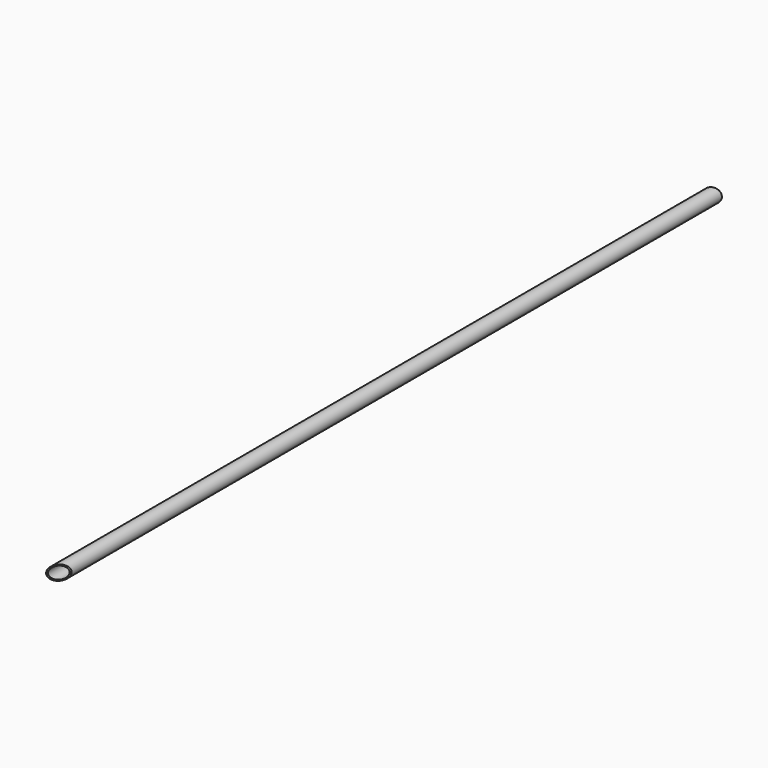
from build123d import *

# Parameters (mm, degrees)
F0_R          = 21.2
F0_R_2        = 17.95
F1_DEPTH      = 2500
F3_DEPTH      = 21.201
F3_DEPTH_BACK = 21.201
F5_DEPTH      = 21.201
F5_DEPTH_BACK = 21.201


with BuildPart() as f1:
    # F0 (on Front) → F1 (new body)
    with BuildSketch(Plane.XZ):
        Circle(F0_R)
        Circle(F0_R_2, mode=Mode.SUBTRACT)
    extrude(amount=F1_DEPTH)

    # F2 (on Top) → F3 (cut, two sides)
    with BuildSketch(Plane.XY) as f3_sk:
        Polygon((-21.2, 0), (-21.2, -16.8792704184), (21.2, 0), align=None)
    extrude(amount=-F3_DEPTH, mode=Mode.SUBTRACT)
    extrude(f3_sk.sketch, amount=F3_DEPTH_BACK, mode=Mode.SUBTRACT)

    # F4 (on Top) → F5 (cut, two sides)
    with BuildSketch(Plane.XY) as f5_sk:
        Polygon((21.2, -2500), (21.2, -2370.596422726), (-21.2, -2410.7125909795), (-21.2, -2500), align=None)
    extrude(amount=-F5_DEPTH, mode=Mode.SUBTRACT)
    extrude(f5_sk.sketch, amount=F5_DEPTH_BACK, mode=Mode.SUBTRACT)


solid = f1.part
